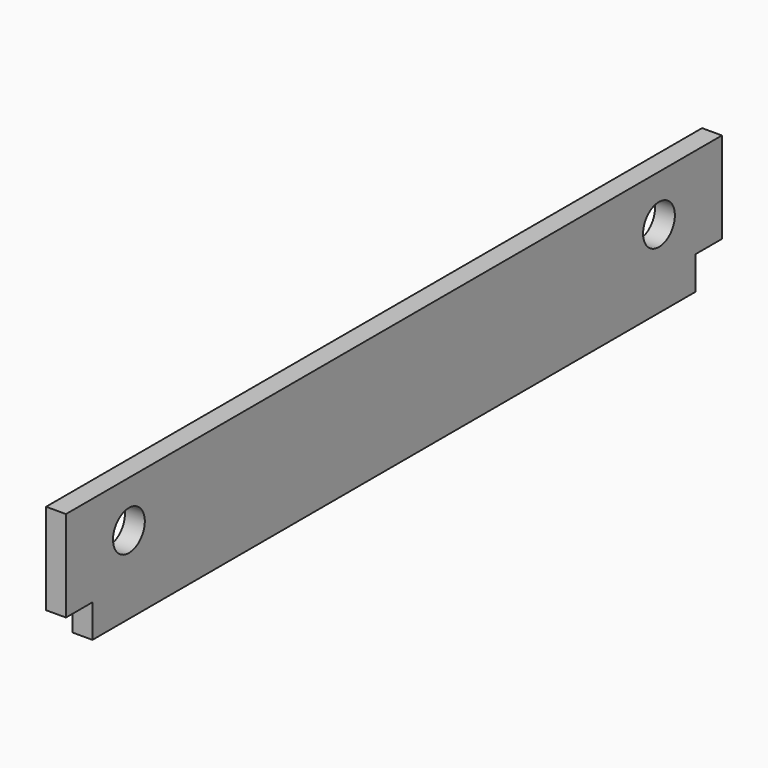
from build123d import *

# Parameters (mm, degrees)
PAD_DEPTH    = 12
SKETCH001_R  = 12
SKETCH001_W  = 20
SKETCH001_H  = 20
POCKET_DEPTH = 20


with BuildPart() as part:
    # Sketch → Pad (new body)
    with BuildSketch(Plane.YZ):
        Polygon((0, 0), (0, 75), (495, 75), (495, 0), (247.5, 0), align=None)
    extrude(amount=-PAD_DEPTH)

    # Sketch001 (on Face7 of Pad) → Pocket (cut)
    with BuildSketch(Plane(origin=(-12, 0, 0), x_dir=(0, -1, 0), z_dir=(-1, 0, 0))):
        with Locations((-447.5, 47)):
            Circle(SKETCH001_R)
        with Locations((-47.5, 47)):
            Circle(SKETCH001_R)
        with Locations((-10, 10)):
            Rectangle(SKETCH001_W, SKETCH001_H)
        with Locations((-485, 10)):
            Rectangle(SKETCH001_W, SKETCH001_H)
    extrude(amount=-POCKET_DEPTH, mode=Mode.SUBTRACT)


solid = part.part
